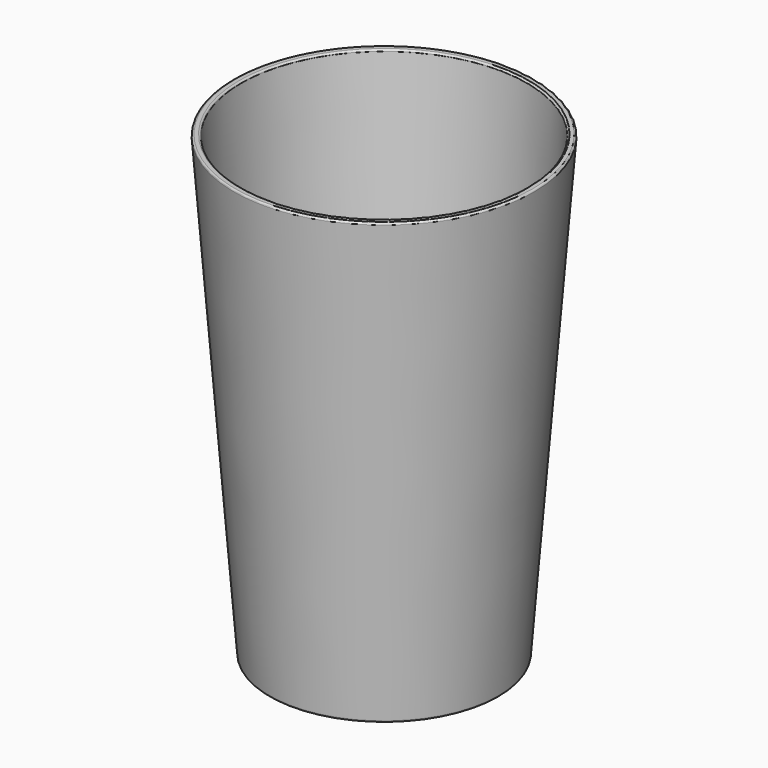
from build123d import *

# Parameters (mm, degrees)
F2_R = 0.396875
F3_R = 0.396875
F4_R = 0.396875


with BuildPart() as f1:
    # F0 (on Front) → F1 (revolve)
    with BuildSketch(Plane.XZ):
        Polygon((0, 1.5875), (0, 0), (25.4, 0), (33.3375, 101.6), (31.75, 101.6), (23.936523, 1.5875), align=None)
    revolve(axis=Axis((0, 0, 50.8), (0, 0, 1)))

    # F2
    f2_edges = [f1.edges().sort_by_distance(p)[0] for p in [
        (-33.3375, 0, 101.6),
    ]]
    fillet(f2_edges, radius=F2_R)

    # F3
    f3_edges = [f1.edges().sort_by_distance(p)[0] for p in [
        (-31.75, 0, 101.6),
    ]]
    fillet(f3_edges, radius=F3_R)

    # F4
    f4_edges = [f1.edges().sort_by_distance(p)[0] for p in [
        (-25.4, 0, 0),
    ]]
    fillet(f4_edges, radius=F4_R)


solid = f1.part
